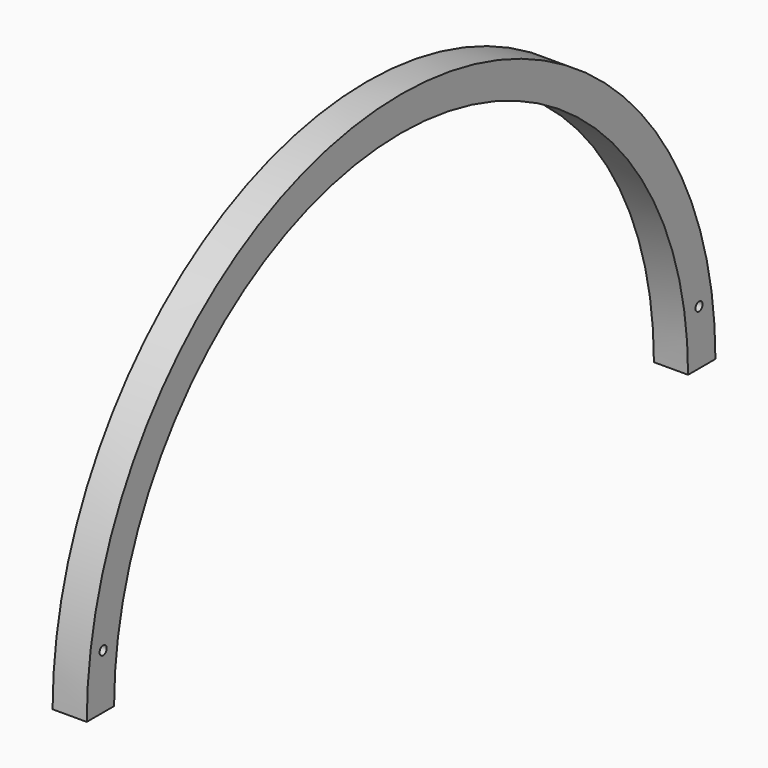
from build123d import *

# Parameters (mm, degrees)
CYLINDER084_R     = 1.3
CYLINDER084_DEPTH = 331
CYLINDER083_R     = 1.3
CYLINDER083_DEPTH = 331
CYLINDER082_W     = 105
CYLINDER082_H     = 10
CYLINDER082_ANGLE = 180
CYLINDER081_W     = 115
CYLINDER081_H     = 10
CYLINDER081_ANGLE = 180


with BuildPart() as cilindro084:
    # Cylinder084 → Cylinder084 (new body)
    with BuildSketch(Plane(origin=(5, 224, 178), x_dir=(0, 0, -1), z_dir=(1, 0, 0))):
        Circle(CYLINDER084_R)
    extrude(amount=CYLINDER084_DEPTH)


with BuildPart() as cilindro083:
    # Cylinder083 → Cylinder083 (new body)
    with BuildSketch(Plane(origin=(5, 6, 178), x_dir=(0, 0, -1), z_dir=(1, 0, 0))):
        Circle(CYLINDER083_R)
    extrude(amount=CYLINDER083_DEPTH)


with BuildPart() as cilindro082:
    # Cylinder082 → Cylinder082 (revolve)
    with BuildSketch(Plane(origin=(-3, 115, 171), x_dir=(0, -1, 0), z_dir=(0, 0, -1))):
        with Locations((52.5, 5)):
            Rectangle(CYLINDER082_W, CYLINDER082_H)
    revolve(axis=Axis((-3, 115, 171), (-1, 0, 0)), revolution_arc=CYLINDER082_ANGLE)


with BuildPart() as cut088:
    # Cylinder081 → Cylinder081 (revolve)
    with BuildSketch(Plane(origin=(-3, 115, 171), x_dir=(0, -1, 0), z_dir=(0, 0, -1))):
        with Locations((57.5, 5)):
            Rectangle(CYLINDER081_W, CYLINDER081_H)
    revolve(axis=Axis((-3, 115, 171), (-1, 0, 0)), revolution_arc=CYLINDER081_ANGLE)

    # Cut089: cut Cilindro082
    add(cilindro082.part, mode=Mode.SUBTRACT)


with BuildPart() as cut088_1:
    # Cut089 placement: moved
    add(cut088.part.moved(Location((13, 0, -9))))

    # Cut090: cut Cilindro083
    add(cilindro083.part, mode=Mode.SUBTRACT)

    # Cut088: cut Cilindro084
    add(cilindro084.part, mode=Mode.SUBTRACT)


with BuildPart() as cut088_2:
    # Cut088 placement: moved
    add(cut088_1.part.moved(Location((-20, 0, 0))))


solid = cut088_2.part
